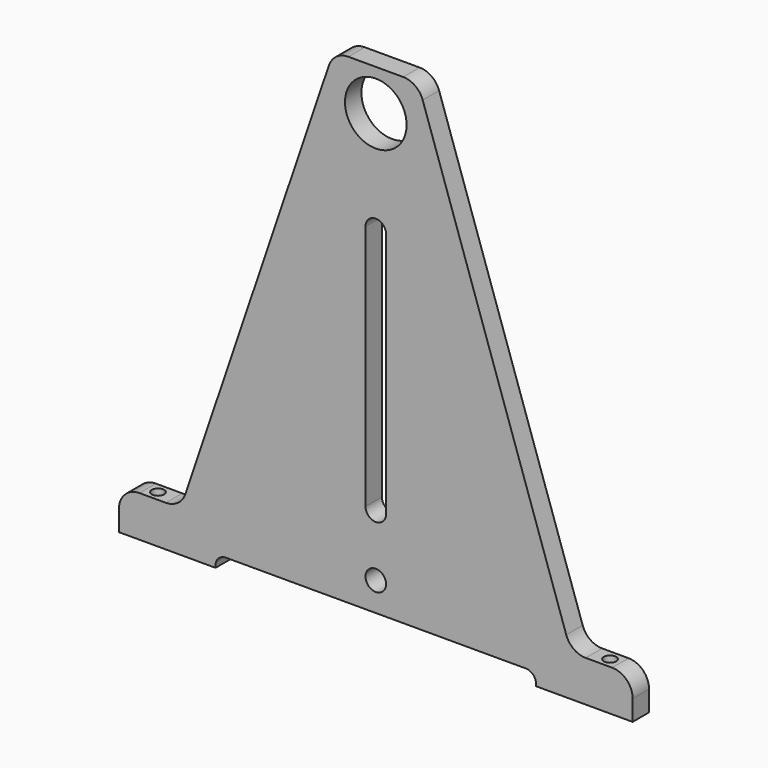
from build123d import *

# Parameters (mm, degrees)
F0_R     = 5
F0_R_2   = 15
F1_DEPTH = 10
F3_D     = 6


with BuildPart() as f1:
    # F0 (on Front) → F1 (new body)
    with BuildSketch(Plane.XZ):
        with BuildLine():
            Line((-125, -10), (-125, -20))
            Line((-125, -20), (-78, -20))
            Line((-78, -20), (-78, -19))
            ThreePointArc((-78, -19), (-76.535534, -15.464466), (-73, -14))
            Line((-73, -14), (73, -14))
            ThreePointArc((73, -14), (76.535534, -15.464466), (78, -19))
            Line((78, -19), (78, -20))
            Line((78, -20), (125, -20))
            Line((125, -20), (125, -10))
            ThreePointArc((125, -10), (122.071068, -2.928932), (115, 0))
            Line((115, 0), (102.172095, 0))
            ThreePointArc((102.172095, 0), (96.343992, 1.873918), (92.700165, 6.793357))
            Line((92.700165, 6.793357), (22.820668, 213.206643))
            ThreePointArc((22.820668, 213.206643), (19.176842, 218.126082), (13.348739, 220))
            Line((13.348739, 220), (0, 220))
            Line((0, 220), (-13.348739, 220))
            ThreePointArc((-13.348739, 220), (-19.176842, 218.126082), (-22.820668, 213.206643))
            Line((-22.820668, 213.206643), (-92.700165, 6.793357))
            ThreePointArc((-92.700165, 6.793357), (-96.343992, 1.873918), (-102.172095, 0))
            Line((-102.172095, 0), (-115, 0))
            ThreePointArc((-115, 0), (-122.071068, -2.928932), (-125, -10))
        make_face()
        Circle(F0_R, mode=Mode.SUBTRACT)
        with BuildLine():
            ThreePointArc((-5, 150), (0, 155), (5, 150))
            Line((5, 150), (5, 30))
            ThreePointArc((5, 30), (0, 25), (-5, 30))
            Line((-5, 30), (-5, 150))
        make_face(mode=Mode.SUBTRACT)
        with Locations((0, 200)):
            Circle(F0_R_2, mode=Mode.SUBTRACT)
    extrude(amount=F1_DEPTH)

    # F3 (through all)
    with Locations(Plane.XY):
        with Locations((-110, -5), (110, -5)):
            Hole(F3_D / 2)


solid = f1.part
